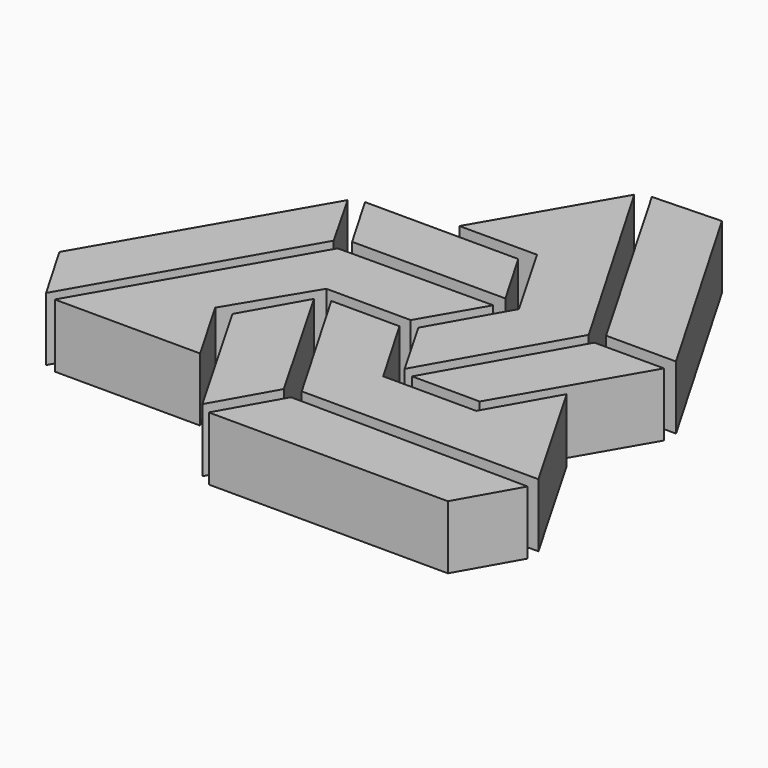
from build123d import *

# Parameters (mm, degrees)
F1_DEPTH = 7.62


with BuildPart() as f1:
    # F0 (on Top) → F1 (new body)
    with BuildSketch(Plane.XY):
        Polygon((23.13968, 7.72538), (8.692427, 32.670196), (0.508046, 32.39172), (14.750983, 7.72538), align=None)
        Polygon((13.376437, 6.832966), (-1.062605, 31.713486), (-9.879662, 16.506741), (-0.562852, 16.506741), (5.005815, 6.832966), (0, -2.007941), (4.216877, -9.333414), align=None)
        Polygon((-1.39766, 14.730163), (-19.821385, 14.778352), (-15.728297, 7.72538), (2.667462, 7.72538), align=None)
        Polygon((-17.226141, 6.832966), (-21.343851, 14.078047), (-35.861969, -11.010276), (-31.638164, -18.288492), align=None)
        Polygon((-1.519407, -1.246631), (2.640755, 5.927525), (-15.952624, 5.842623), (-30.17313, -18.817043), (-12.704655, -18.862733), (-17.395943, -10.713122), (-11.664815, -1.220095), align=None)
        Polygon((-1.56236, -2.881184), (-9.754831, -2.859756), (-0.458052, -18.915032), (27.99761, -18.98946), (19.282318, -3.849433), (14.781572, -11.798324), (3.595591, -11.769066), align=None)
        Polygon((-2.062717, -19.608561), (-11.283051, -3.538967), (-15.345134, -10.713122), (-6.109895, -26.756392), align=None)
        Polygon((28.127865, -20.770603), (-0.500591, -20.47677), (-4.588894, -27.697234), (24.163352, -27.772438), align=None)
        Polygon((23.13968, 5.927525), (14.781572, 5.927525), (5.714465, -10.086138), (13.847864, -10.107412), align=None)
    extrude(amount=F1_DEPTH)


solid = f1.part
